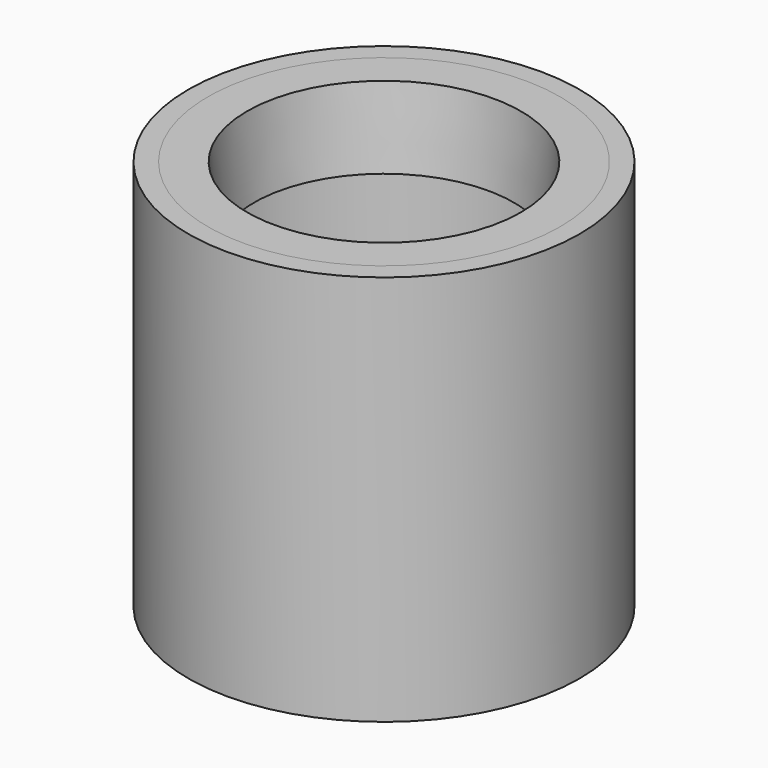
from build123d import *

# Parameters (mm, degrees)
F0_R     = 6.35
F1_DEPTH = 12.7
F2_R     = 5.715
F2_R_2   = 4.445
F3_DEPTH = 11.43
F4_DEPTH = 2.54
F5_DEPTH = 11.43
F6_DEPTH = 2.54
F7_DEPTH = 2.54
F7_TAPER = 5


with BuildPart() as f1:
    # F0 (on Top) → F1 (new body)
    with BuildSketch(Plane.XY):
        Circle(F0_R)
    extrude(amount=F1_DEPTH)

    # F2 (on face) → F3 (cut)
    with BuildSketch(Plane.XY.offset(12.7)):
        Circle(F2_R)
        Circle(F2_R_2, mode=Mode.SUBTRACT)
    extrude(amount=-F3_DEPTH, mode=Mode.SUBTRACT)

    # F2 (on face) → F5 (cut)
    with BuildSketch(Plane.XY.offset(12.7)):
        Circle(F2_R_2)
    extrude(amount=-F5_DEPTH, mode=Mode.SUBTRACT)


with BuildPart() as f4:
    # F2 (on face) → F4 (new body)
    with BuildSketch(Plane.XY.offset(12.7)):
        Circle(F2_R)
        Circle(F2_R_2, mode=Mode.SUBTRACT)
    extrude(amount=-F4_DEPTH)

    # F2 (on face) → F6 (join)
    with BuildSketch(Plane.XY.offset(12.7)):
        Circle(F2_R_2)
    extrude(amount=-F6_DEPTH)

    # F2 (on face) → F7 (cut)
    with BuildSketch(Plane.XY.offset(12.7)):
        Circle(F2_R_2)
    extrude(amount=-F7_DEPTH, taper=F7_TAPER, mode=Mode.SUBTRACT)


solid = Compound([f1.part, f4.part])
